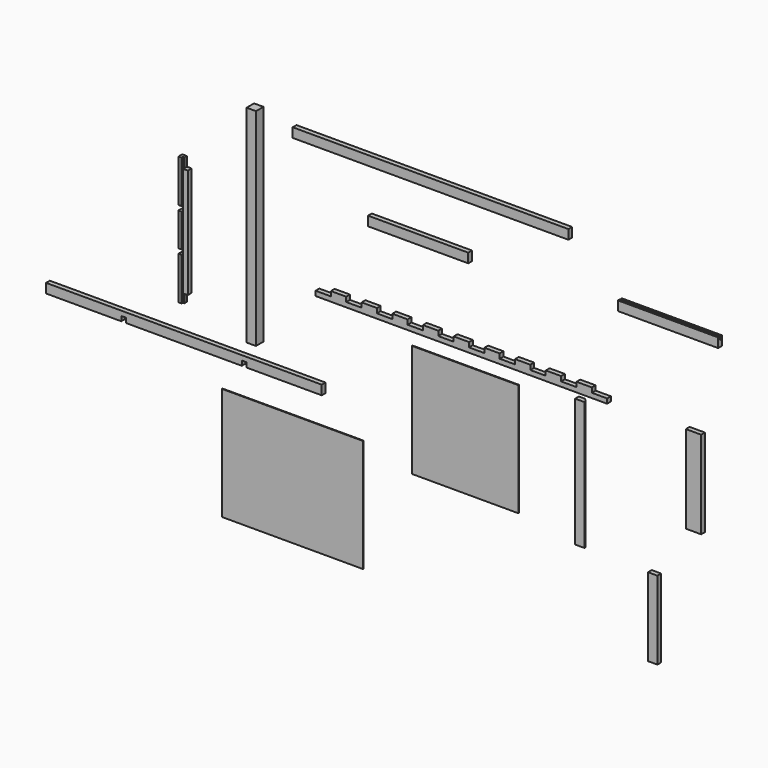
from build123d import *

# Parameters (mm, degrees)
F1_DEPTH  = 19.05
F2_W      = 38.1
F2_H      = 838.2
F3_DEPTH  = 38.1
F4_W      = 1117.6
F4_H      = 38.1
F5_DEPTH  = 19.05
F6_W      = 406.4
F6_H      = 38.1
F7_DEPTH  = 19.05
F8_W      = 62.23
F8_H      = 355.6
F9_DEPTH  = 19.05
F10_W     = 431.8
F10_H     = 457.2
F11_DEPTH = 3.175
F12_W     = 406.4
F12_H     = 3.175
F13_DEPTH = 12.7
F14_W     = 19.05
F14_H     = 38.1
F15_DEPTH = 19.05
F17_DEPTH = 19.05
F18_W     = 406.4
F18_H     = 38.1
F19_DEPTH = 19.05
F20_W     = 38.1
F20_H     = 520.7
F21_DEPTH = 19.05
F22_SIZE  = 12.7
F23_SIZE  = 12.7
F24_W     = 571.5
F24_H     = 457.2
F25_DEPTH = 3.175
F26_W     = 38.1
F26_H     = 317.5
F27_DEPTH = 19.05
F28_W     = 6.35
F28_H     = 520.7
F29_DEPTH = 6.35


with BuildPart() as f1:
    # F0 (on Front) → F1 (new body)
    with BuildSketch(Plane.XZ):
        Polygon((-650.200657, -105.844021), (-712.430657, -105.844021), (-712.430657, -124.894021), (-774.660657, -124.894021), (-774.660657, -143.944021), (407.433808, -143.944021), (407.709343, -124.894021), (345.479343, -124.894021), (345.479343, -105.844021), (283.249343, -105.844021), (283.249343, -124.894021), (221.019343, -124.894021), (221.019343, -105.844021), (158.789343, -105.844021), (158.789343, -124.894021), (96.559343, -124.894021), (96.559343, -105.844021), (34.329343, -105.844021), (34.329343, -124.894021), (-27.900657, -124.894021), (-27.900657, -105.844021), (-90.130657, -105.844021), (-90.130657, -124.894021), (-152.360657, -124.894021), (-152.360657, -105.844021), (-214.590657, -105.844021), (-214.590657, -124.894021), (-276.820657, -124.894021), (-276.820657, -105.844021), (-339.050657, -105.844021), (-339.050657, -124.894021), (-401.280657, -124.894021), (-401.280657, -105.844021), (-463.510657, -105.844021), (-463.510657, -124.894021), (-525.740657, -124.894021), (-525.740657, -105.844021), (-587.970657, -105.844021), (-587.970657, -124.894021), (-650.200657, -124.894021), align=None)
    extrude(amount=F1_DEPTH)


with BuildPart() as f3:
    # F2 (on Front) → F3 (new body)
    with BuildSketch(Plane.XZ):
        with Locations((-1020.001639, 30.982481)):
            Rectangle(F2_W, F2_H)
    extrude(amount=F3_DEPTH)


with BuildPart() as f5:
    # F4 (on Front) → F5 (new body)
    with BuildSketch(Plane.XZ):
        with Locations((-308.242815, 409.40186)):
            Rectangle(F4_W, F4_H)
    extrude(amount=F5_DEPTH)


with BuildPart() as f7:
    # F6 (on Front) → F7 (new body)
    with BuildSketch(Plane.XZ):
        with Locations((654.666776, 220.141749)):
            Rectangle(F6_W, F6_H)
    extrude(amount=F7_DEPTH)

    # F12 (on face) → F13 (cut)
    with BuildSketch(Plane.XY.offset(239.191749)):
        with Locations((654.666776, -7.9375)):
            Rectangle(F12_W, F12_H)
    extrude(amount=-F13_DEPTH, mode=Mode.SUBTRACT)


with BuildPart() as f9:
    # F8 (on Front) → F9 (new body)
    with BuildSketch(Plane.XZ):
        with Locations((757.788079, -308.256779)):
            Rectangle(F8_W, F8_H)
    extrude(amount=F9_DEPTH)


with BuildPart() as f11:
    # F10 (on Front) → F11 (new body)
    with BuildSketch(Plane.XZ):
        with Locations((-180.627198, -433.859834)):
            Rectangle(F10_W, F10_H)
    extrude(amount=F11_DEPTH)


with BuildPart() as f15:
    # F14 (on Front) → F15 (new body)
    with BuildSketch(Plane.XZ):
        with Locations((-1320.991134, 154.516667)):
            Rectangle(F14_W, F14_H)
        Polygon((-1311.466134, 135.466667), (-1330.516134, 135.466667), (-1330.516134, 0), (-1311.466134, 0), (-1311.466134, -19.05), (-1330.516134, -19.05), (-1330.516134, -154.516667), (-1311.466134, -154.516667), (-1311.466134, -173.566667), (-1330.516134, -173.566667), (-1330.516134, -309.033333), (-1311.466134, -309.033333), (-1292.416134, -309.033333), (-1292.416134, 135.466667), align=None)
        with Locations((-1320.991134, -328.083333)):
            Rectangle(F14_W, F14_H)
    extrude(amount=F15_DEPTH)

    # F28 (on face) → F29 (cut)
    with BuildSketch(Plane.XZ.offset(19.05)):
        with Locations((-1314.641134, -86.783333)):
            Rectangle(F28_W, F28_H)
    extrude(amount=-F29_DEPTH, mode=Mode.SUBTRACT)


with BuildPart() as f17:
    # F16 (on Front) → F17 (new body)
    with BuildSketch(Plane.XZ):
        Polygon((-749.489152, -452.106331), (-1867.089152, -452.106331), (-1867.089152, -490.206331), (-1562.289152, -490.206331), (-1562.289152, -471.156331), (-1543.239152, -471.156331), (-1543.239152, -490.206331), (-1073.339152, -490.206331), (-1073.339152, -471.156331), (-1054.289152, -471.156331), (-1054.289152, -490.206331), (-749.489152, -490.206331), align=None)
    extrude(amount=F17_DEPTH)


with BuildPart() as f19:
    # F18 (on Front) → F19 (new body)
    with BuildSketch(Plane.XZ):
        with Locations((-358.623012, 193.204112)):
            Rectangle(F18_W, F18_H)
    extrude(amount=F19_DEPTH)


with BuildPart() as f21:
    # F20 (on Front) → F21 (new body)
    with BuildSketch(Plane.XZ):
        with Locations((296.800062, -428.307901)):
            Rectangle(F20_W, F20_H)
    extrude(amount=F21_DEPTH)

    # F22
    f22_edges = [f21.edges().sort_by_distance(p)[0] for p in [
        (296.800062, 0, -688.657901),
    ]]
    chamfer(f22_edges, length=F22_SIZE)

    # F23
    f23_edges = [f21.edges().sort_by_distance(p)[0] for p in [
        (315.850062, 0, -421.957901),
    ]]
    chamfer(f23_edges, length=F23_SIZE)


with BuildPart() as f25:
    # F24 (on Front) → F25 (new body)
    with BuildSketch(Plane.XZ):
        with Locations((-881.336419, -837.915634)):
            Rectangle(F24_W, F24_H)
    extrude(amount=F25_DEPTH)


with BuildPart() as f27:
    # F26 (on Front) → F27 (new body)
    with BuildSketch(Plane.XZ):
        with Locations((592.417151, -850.094514)):
            Rectangle(F26_W, F26_H)
    extrude(amount=F27_DEPTH)


solid = Compound([f1.part, f3.part, f5.part, f7.part, f9.part, f11.part, f15.part, f17.part, f19.part, f21.part, f25.part, f27.part])
